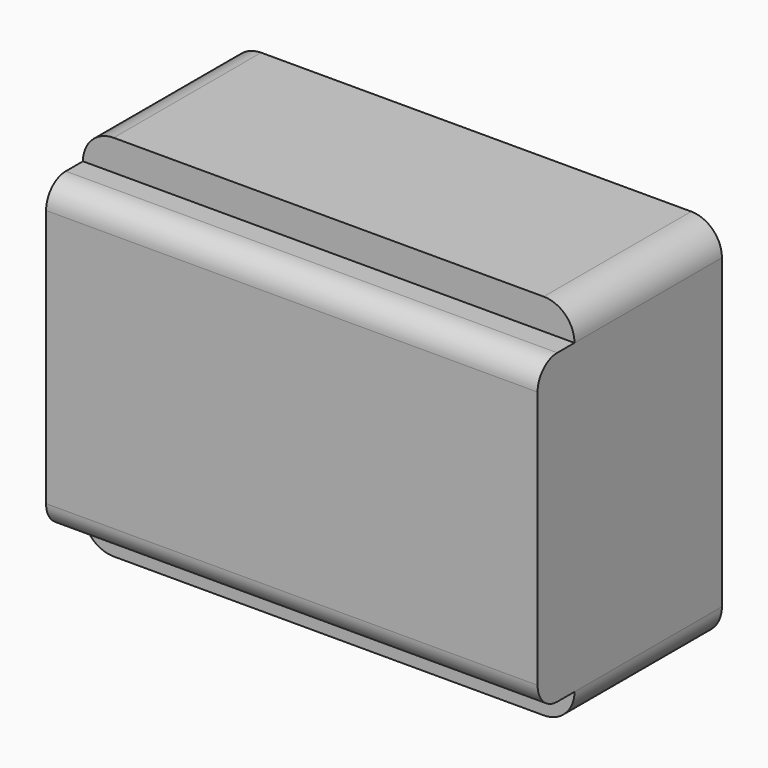
from build123d import *

# Parameters (mm, degrees)
F0_W     = 101.6
F0_H     = 76.2
F1_DEPTH = 38.1
F2_R     = 6.35
F3_W     = 101.6
F3_H     = 63.5
F4_DEPTH = 9.525
F5_R     = 5.08


with BuildPart() as f1:
    # F0 (on Front) → F1 (new body)
    with BuildSketch(Plane.XZ):
        Rectangle(F0_W, F0_H)
    extrude(amount=F1_DEPTH)

    # F2
    f2_edges = [f1.edges().sort_by_distance(p)[0] for p in [
        (50.8, -19.05, -38.1),
        (50.8, -19.05, 38.1),
        (-50.8, -19.05, 38.1),
        (-50.8, -19.05, -38.1),
    ]]
    fillet(f2_edges, radius=F2_R)

    # F3 (on face) → F4 (join)
    with BuildSketch(Plane.XZ.offset(38.1)):
        Rectangle(F3_W, F3_H)
    extrude(amount=F4_DEPTH)

    # F5
    f5_edges = [f1.edges().sort_by_distance(p)[0] for p in [
        (0, -47.625, 31.75),
        (0, -47.625, -31.75),
    ]]
    fillet(f5_edges, radius=F5_R)


solid = f1.part
